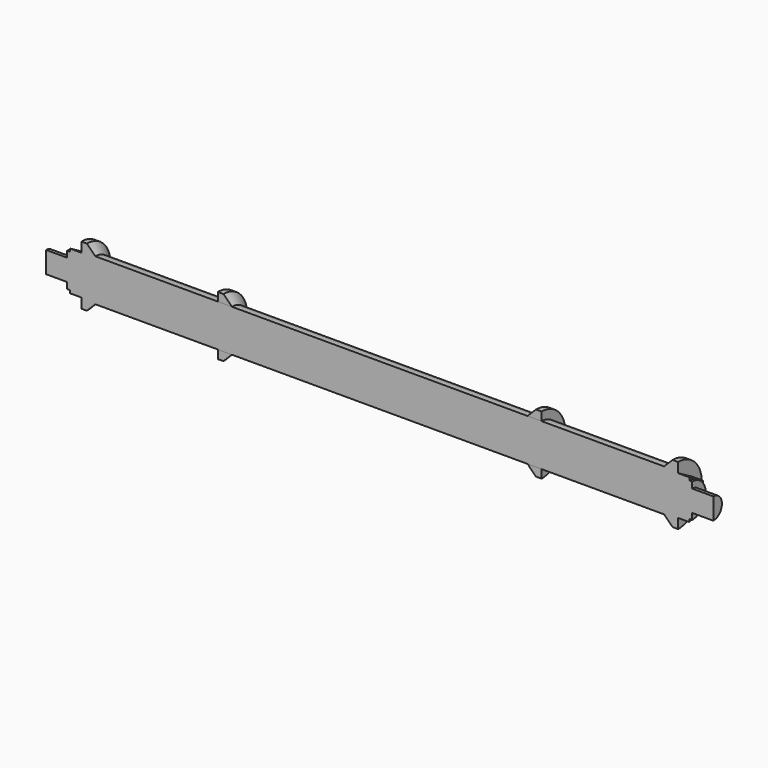
from build123d import *

# Parameters (mm, degrees)
REVOLUTION_ANGLE    = -180
PAD_DEPTH           = 4
PAD004_DEPTH        = 4
REVOLUTION001_ANGLE = -180
PAD002_DEPTH        = 4
PAD003_DEPTH        = 4


with BuildPart() as body:
    # Sketch → Revolution (revolve)
    with BuildSketch(Plane.XZ):
        Polygon((-70, 0), (-70, 3.8), (-62.5, 3.8), (-62.5, 6), (-57.5, 6), (-57.5, 10.5), (-55.5, 10.5), (-52.5, 7.5), (52.5, 7.5), (55.5, 10.5), (57.5, 10.5), (57.5, 6), (62.5, 6), (62.5, 3.8), (70, 3.8), (70, 0), align=None)
    revolve(axis=Axis((0, 0, 0), (1, 0, 0)), revolution_arc=REVOLUTION_ANGLE)

    # Sketch002 (on Face11 of Revolution) → Pad (new body)
    with BuildSketch(Plane(origin=(57.5, 0, 0), x_dir=(0, 0, 1), z_dir=(1, 0, 0))):
        Polygon((0, 0), (7, 0), (3.5, -6.062178), (-3.5, -6.062178), (-7, 0), align=None)
    extrude(amount=PAD_DEPTH)

    # Sketch007 (on Face5 of Revolution) → Pad004 (join)
    with BuildSketch(Plane(origin=(-57.5, 0, 0), x_dir=(0, 0, -1), z_dir=(-1, 0, 0))):
        Polygon((0, 0), (7, 0), (3.5, -6.062178), (-3.5, -6.062178), (-7, 0), align=None)
    extrude(amount=PAD004_DEPTH)


with BuildPart() as body001:
    # Sketch003 → Revolution001 (revolve)
    with BuildSketch(Plane.XZ):
        Polygon((-118.5, 0), (-118.5, 3.8), (-111, 3.8), (-111, 6), (-106, 6), (-106, 10.5), (-104, 10.5), (-101, 7.5), (101, 7.5), (104, 10.5), (106, 10.5), (106, 6), (111, 6), (111, 3.8), (118.5, 3.8), (118.5, 0), align=None)
    revolve(axis=Axis((0, 0, 0), (1, 0, 0)), revolution_arc=REVOLUTION001_ANGLE)

    # Sketch005 (on Face11 of Revolution001) → Pad002 (new body)
    with BuildSketch(Plane(origin=(106, 0, 0), x_dir=(0, 0, 1), z_dir=(1, 0, 0))):
        Polygon((0, 0), (7, 0), (3.5, -6.062178), (-3.5, -6.062178), (-7, 0), align=None)
    extrude(amount=PAD002_DEPTH)

    # Sketch006 (on Face5 of Revolution001) → Pad003 (join)
    with BuildSketch(Plane(origin=(-106, 0, 0), x_dir=(0, 0, -1), z_dir=(-1, 0, 0))):
        Polygon((0, 0), (7, 0), (3.5, -6.062178), (-3.5, -6.062178), (-7, 0), align=None)
    extrude(amount=PAD003_DEPTH)


solid = Compound([body.part, body001.part])
